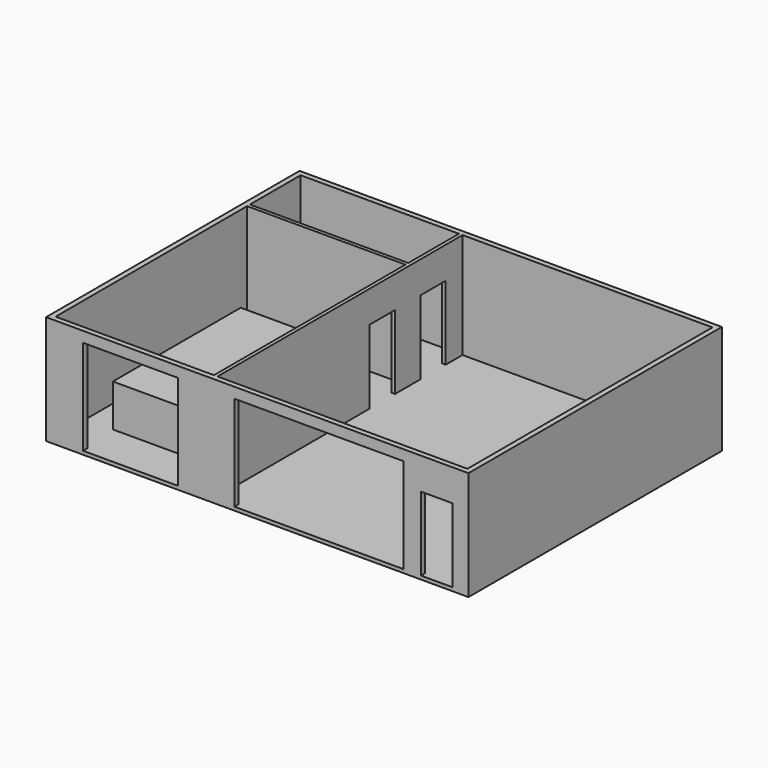
from build123d import *

# Parameters (mm, degrees)
F0_W      = 12192
F0_H      = 9144
F0_W_2    = 11887.2
F0_H_2    = 8839.2
F1_DEPTH  = 3048
F2_W      = 9144
F2_H      = 101.6
F3_DEPTH  = 12192
F4_W      = 101.6
F4_H      = 3048
F5_DEPTH  = 8839.2
F6_W      = 101.6
F6_H      = 3048
F7_DEPTH  = 4572
F8_W      = 2743.2
F8_H      = 2743.2
F9_DEPTH  = 1574.8
F10_W     = 4876.8
F10_H     = 2743.2
F11_DEPTH = 3378.2
F12_W     = 914.4
F12_H     = 2133.6
F13_DEPTH = 1320.8
F14_W     = 914.4
F14_H     = 2133.6
F15_DEPTH = 660.4
F16_W     = 914.4
F16_H     = 2133.6
F17_DEPTH = 508
F18_W     = 2743.2
F18_H     = 4612.64
F19_DEPTH = 1219.2


with BuildPart() as f1:
    # F0 (on Top) → F1 (new body)
    with BuildSketch(Plane.XY):
        with Locations((-3602.979988, 4.555729)):
            Rectangle(F0_W, F0_H)
        with Locations((-3602.979988, 4.555729)):
            Rectangle(F0_W_2, F0_H_2, mode=Mode.SUBTRACT)
    extrude(amount=F1_DEPTH)

    # F2 (on face) → F3 (join, through all)
    with BuildSketch(Plane.YZ.offset(2493.020012)):
        with Locations((4.555729, -50.8)):
            Rectangle(F2_W, F2_H)
    extrude(amount=-F3_DEPTH)

    # F4 (on face) → F5 (join, through all)
    with BuildSketch(Plane(origin=(0, -4415.044271, 0), x_dir=(-1, 0, 0), z_dir=(0, 1, 0))):
        with Locations((4923.779988, 1524)):
            Rectangle(F4_W, F4_H)
    extrude(amount=F5_DEPTH)

    # F6 (on face) → F7 (join, through all)
    with BuildSketch(Plane(origin=(-4974.579988, 0, 0), x_dir=(0, -1, 0), z_dir=(-1, 0, 0))):
        with Locations((-2544.555729, 1524)):
            Rectangle(F6_W, F6_H)
    extrude(amount=F7_DEPTH)

    # F8 (on face) → F9 (cut)
    with BuildSketch(Plane(origin=(0, -4415.044271, 0), x_dir=(-1, 0, 0), z_dir=(0, 1, 0))):
        with Locations((7260.579988, 1371.6)):
            Rectangle(F8_W, F8_H)
    extrude(amount=-F9_DEPTH, mode=Mode.SUBTRACT)

    # F10 (on face) → F11 (cut)
    with BuildSketch(Plane(origin=(0, -4415.044271, 0), x_dir=(-1, 0, 0), z_dir=(0, 1, 0))):
        with Locations((1824.979988, 1371.6)):
            Rectangle(F10_W, F10_H)
    extrude(amount=-F11_DEPTH, mode=Mode.SUBTRACT)

    # F12 (on face) → F13 (cut)
    with BuildSketch(Plane(origin=(-4974.579988, 0, 0), x_dir=(0, -1, 0), z_dir=(-1, 0, 0))):
        with Locations((-3357.355729, 1066.8)):
            Rectangle(F12_W, F12_H)
    extrude(amount=-F13_DEPTH, mode=Mode.SUBTRACT)

    # F14 (on face) → F15 (cut)
    with BuildSketch(Plane.YZ.offset(-4872.979988)):
        with Locations((1528.800061, 1066.8)):
            Rectangle(F14_W, F14_H)
    extrude(amount=-F15_DEPTH, mode=Mode.SUBTRACT)

    # F16 (on face) → F17 (cut)
    with BuildSketch(Plane(origin=(0, -4415.044271, 0), x_dir=(-1, 0, 0), z_dir=(0, 1, 0))):
        with Locations((-1578.620012, 1066.8)):
            Rectangle(F16_W, F16_H)
    extrude(amount=-F17_DEPTH, mode=Mode.SUBTRACT)

    # F18 (on face) → F19 (join)
    with BuildSketch(Plane.XY):
        with Locations((-7384.23562, -1029.511064)):
            Rectangle(F18_W, F18_H)
    extrude(amount=F19_DEPTH)


solid = f1.part
